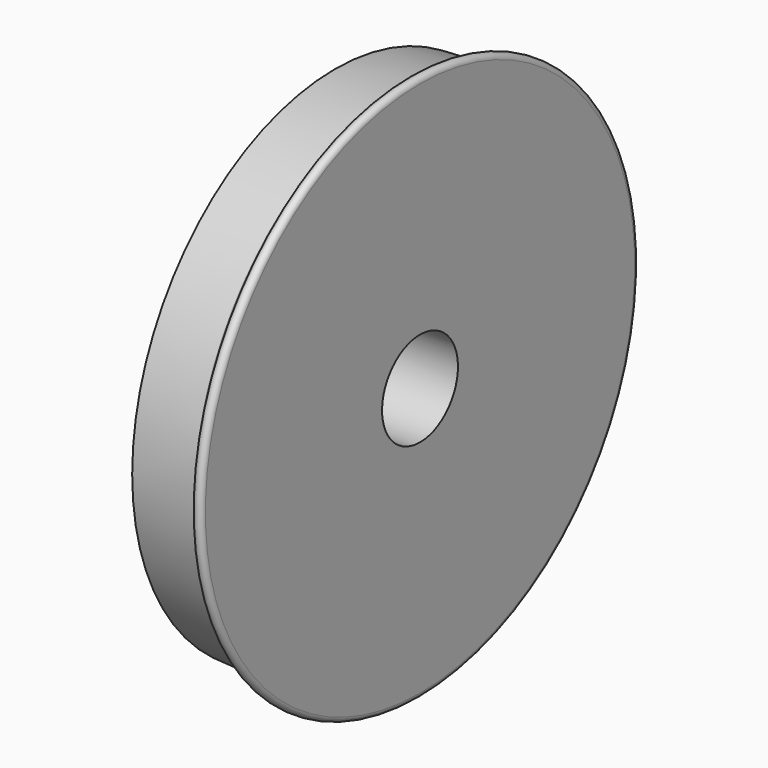
from build123d import *


with BuildPart() as f1:
    # F0 (on Front) → F1 (revolve)
    with BuildSketch(Plane.XZ):
        with BuildLine():
            Line((-17, -41.921168), (-17, -51.921168))
            Line((-17, -51.921168), (9.06, -53.286915))
            ThreePointArc((9.06, -53.286915), (10.785108, -53.906292), (11.881794, -55.374933))
            Line((11.881794, -55.374933), (13.004233, -58.458809))
            ThreePointArc((13.004233, -58.458809), (15.297715, -59.782951), (17, -57.754247))
            Line((17, -57.754247), (17, -51.921168))
            Line((17, -51.921168), (17, 30.678832))
            Line((17, 30.678832), (-17, 30.678832))
            Line((-17, 30.678832), (-17, 20.678832))
            Line((-17, 20.678832), (-12, 20.678832))
            Line((-12, 20.678832), (-12, -41.921168))
            Line((-12, -41.921168), (-17, -41.921168))
        make_face()
    revolve(axis=Axis((0, 0, 49.678832), (-1, 0, 0)))


solid = f1.part
